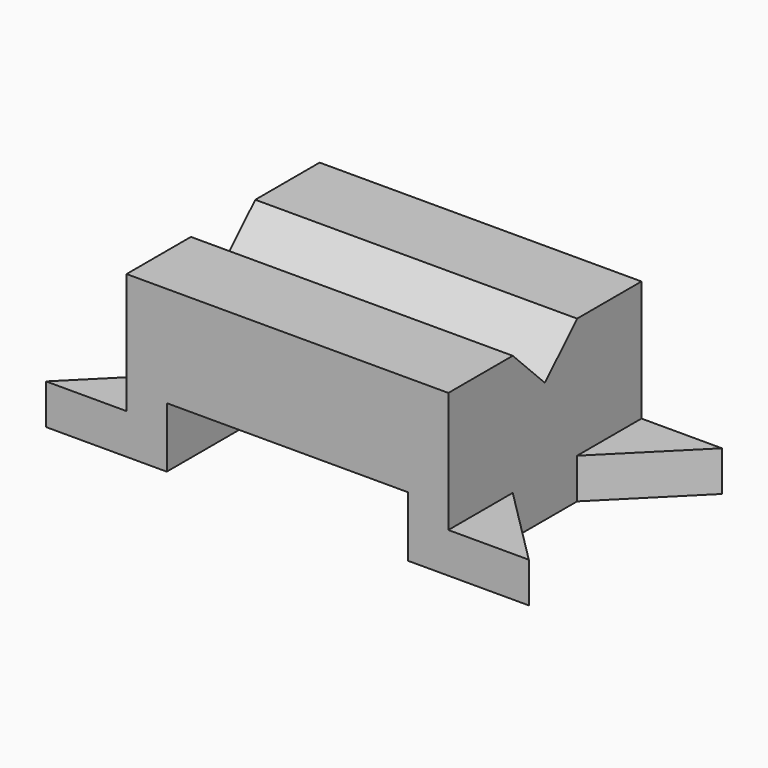
from build123d import *

# Parameters (mm, degrees)
F1_DEPTH = 38.1
F2_DEPTH = 38.1
F4_DEPTH = 101.6
F7_DEPTH = 12.7


with BuildPart() as f1:
    # F0 (on Front) → F1 (new body)
    with BuildSketch(Plane.XZ):
        Polygon((-76.2355700135, -23.8574136376), (-76.2355700135, -36.5574136376), (-38.1355700135, -36.5574136376), (-38.1355700135, -17.5074136376), (38.0644299865, -17.5074136376), (38.0644299865, -36.5574136376), (76.1644299865, -36.5574136376), (76.1644299865, -23.8574136376), (50.7644299865, -23.8574136376), (50.7644299865, 14.2425863624), (-50.8355700135, 14.2425863624), (-50.8355700135, -23.8574136376), align=None)
    extrude(amount=F1_DEPTH)

    # F2 (add): a face of the model
    f2_faces = [f1.faces().sort_by_distance(p)[0] for p in [
        (-0.0355700135, 0, -8.6879691932),
    ]]
    extrude(f2_faces, amount=F2_DEPTH)

    # F3 (on face) → F4 (cut)
    with BuildSketch(Plane(origin=(-50.8355700135, 0, 0), x_dir=(0, -1, 0), z_dir=(-1, 0, 0))):
        Polygon((12.7, 14.2425863624), (-12.7, 14.2425863624), (0, 1.5425863624), align=None)
    extrude(amount=-F4_DEPTH, mode=Mode.SUBTRACT)

    # F6 (on face) + F5 (on face) → F7 (cut)
    with BuildSketch(Plane.XY.offset(-23.8574136376)):
        Polygon((76.1644299865, 38.1), (50.7644299865, 12.7), (50.7644299865, -12.7), (76.1644299865, -38.1), align=None)
    with BuildSketch(Plane.XY.offset(-23.8574136376)):
        Polygon((-50.8355700135, -12.7), (-50.8355700135, 12.7), (-76.2355700135, 38.1), (-76.2355700135, -38.1), align=None)
    extrude(amount=-F7_DEPTH, mode=Mode.SUBTRACT)


solid = f1.part
